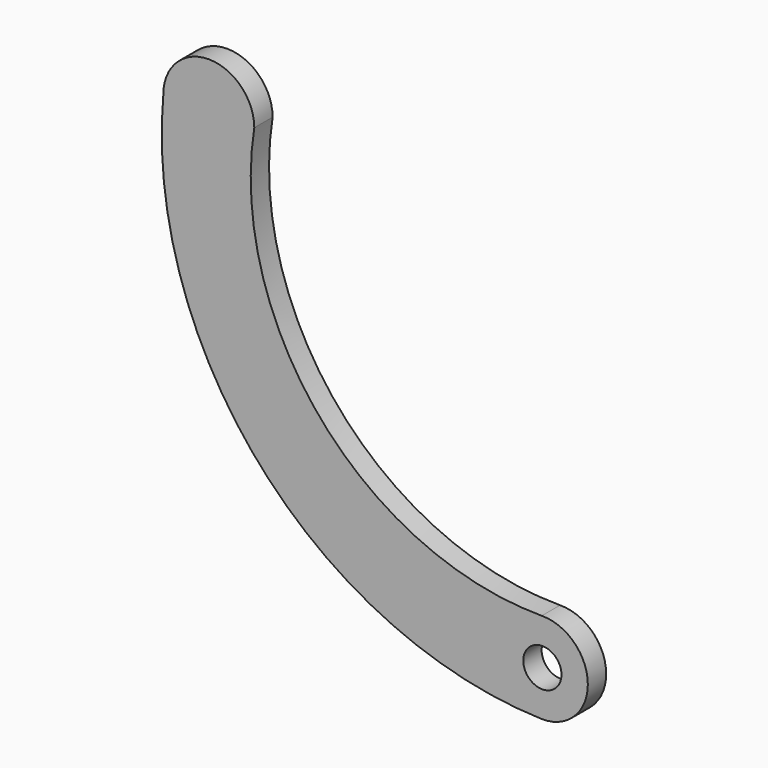
from build123d import *

# Parameters (mm, degrees)
F0_R     = 2.5
F1_DEPTH = 3


with BuildPart() as f1:
    # F0 (on Front) → F1 (new body)
    with BuildSketch(Plane.XZ):
        with BuildLine():
            ThreePointArc((-54.747954, 53.306177), (-60.703294, 59.261517), (-66.658633, 53.306177))
            ThreePointArc((-66.658633, 53.306177), (-53.97604, 14.607964), (-17.089572, -2.648582))
            ThreePointArc((-17.089572, -2.648582), (-11.051134, 3.306177), (-17.089572, 9.260937))
            ThreePointArc((-17.089572, 9.260937), (-46.070709, 22.603712), (-54.747954, 53.306177))
        make_face()
        with Locations((-17.006473, 3.306177)):
            Circle(F0_R, mode=Mode.SUBTRACT)
    extrude(amount=F1_DEPTH)


solid = f1.part
